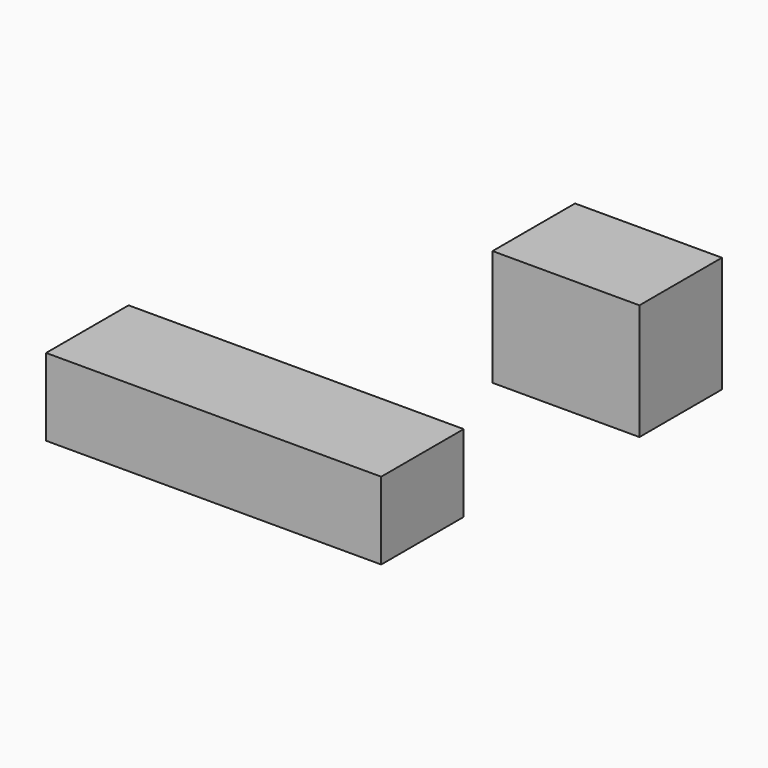
from build123d import *

# Parameters (mm, degrees)
F0_W     = 82.55
F0_H     = 19.05
F1_DEPTH = 25.4


with BuildPart() as f1:
    # F0 (on Front) → F1 (new body)
    with BuildSketch(Plane.XZ):
        Rectangle(F0_W, F0_H)
        Polygon((68.697424, 67.376152), (68.697424, 42.8752), (68.697424, 38.801152), (104.883739, 38.801152), (104.883739, 67.376152), align=None)
    extrude(amount=F1_DEPTH)


solid = f1.part
